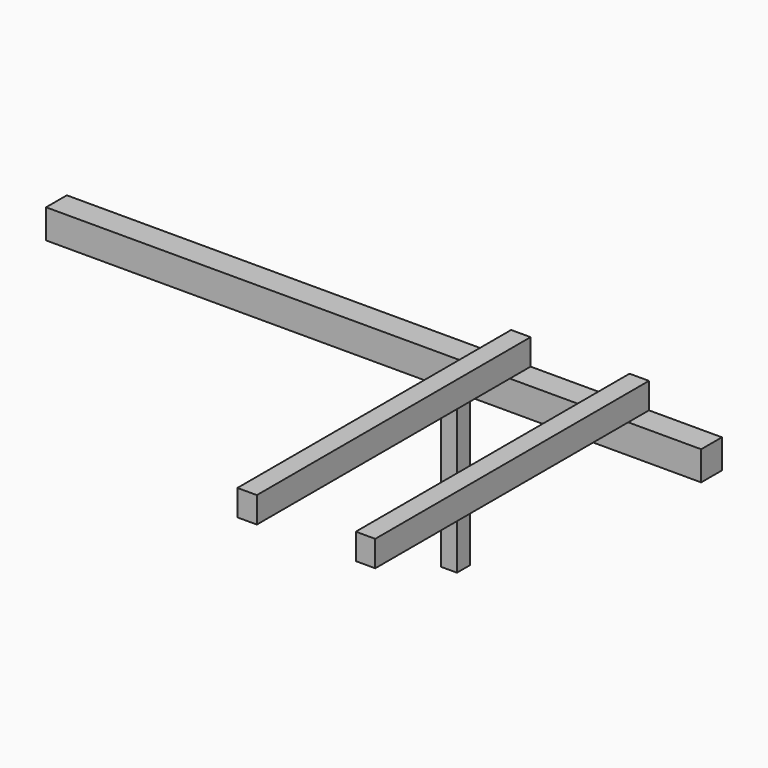
from build123d import *

# Parameters (mm, degrees)
F0_W     = 2740
F0_H     = 160
F0_W_2   = 120
F0_W_3   = 610
F0_W_4   = 450
F1_DEPTH = 180
F0_H_2   = 1950
F2_DEPTH = 160
F3_W     = 99.9577641487
F3_H     = 100
F4_DEPTH = 1000


with BuildPart() as f1:
    # F0 (on Top) → F1 (new body)
    with BuildSketch(Plane.XY):
        with Locations((-650, 0)):
            Rectangle(F0_W, F0_H)
        with Locations((780, 0)):
            Rectangle(F0_W_2, F0_H)
        with Locations((1145, 0)):
            Rectangle(F0_W_3, F0_H)
        with Locations((1510, 0)):
            Rectangle(F0_W_2, F0_H)
        with Locations((1795, 0)):
            Rectangle(F0_W_4, F0_H)
    extrude(amount=-F1_DEPTH)

    # F0 (on Top) → F2 (join)
    with BuildSketch(Plane.XY):
        with Locations((780, -1055)):
            Rectangle(F0_W_2, F0_H_2)
        with Locations((780, 0)):
            Rectangle(F0_W_2, F0_H)
        with Locations((1510, 0)):
            Rectangle(F0_W_2, F0_H)
        with Locations((1510, -1055)):
            Rectangle(F0_W_2, F0_H_2)
    extrude(amount=F2_DEPTH)

    # F3 (on face) → F4 (join)
    with BuildSketch(Plane(origin=(0, 0, -180), x_dir=(1, 0, 0), z_dir=(0, 0, -1))):
        with Locations((440.0211179256, 0)):
            Rectangle(F3_W, F3_H)
    extrude(amount=F4_DEPTH)


solid = f1.part
